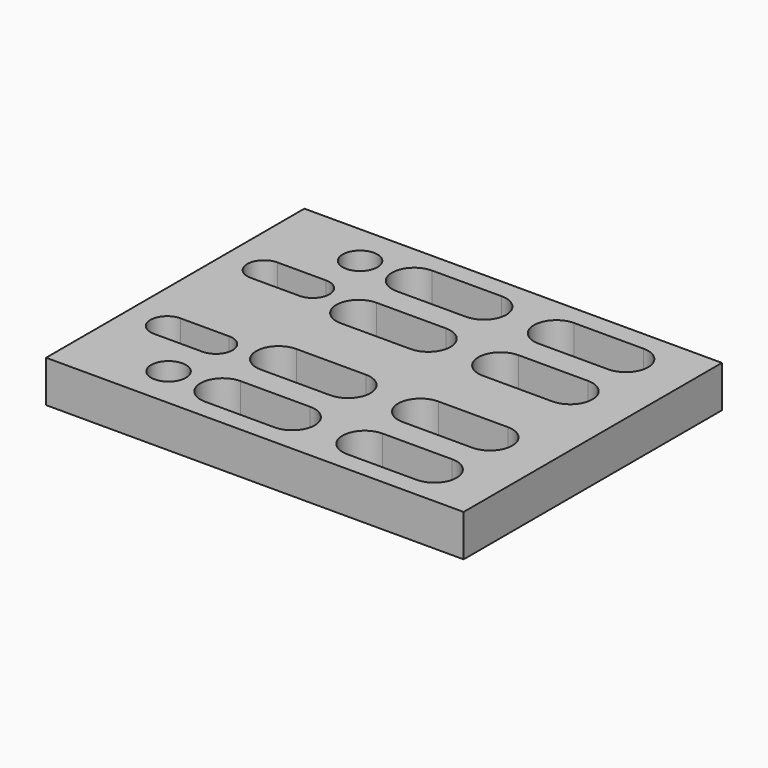
from build123d import *

# Parameters (mm, degrees)
F0_W     = 300
F0_H     = 232
F0_R     = 12.5
F1_DEPTH = 30


with BuildPart() as f1:
    # F0 (on Top) → F1 (new body)
    with BuildSketch(Plane.XY):
        with Locations((150, 0)):
            Rectangle(F0_W, F0_H)
        with Locations((64, -86)):
            Circle(F0_R, mode=Mode.SUBTRACT)
        with BuildLine():
            Line((153, -102), (103, -102))
            ThreePointArc((103, -102), (87, -86), (103, -70))
            Line((103, -70), (153, -70))
            ThreePointArc((153, -70), (169, -86), (153, -102))
        make_face(mode=Mode.SUBTRACT)
        with BuildLine():
            Line((64, -55.5), (29, -55.5))
            ThreePointArc((29, -55.5), (17, -43.5), (29, -31.5))
            Line((29, -31.5), (64, -31.5))
            ThreePointArc((64, -31.5), (76, -43.5), (64, -55.5))
        make_face(mode=Mode.SUBTRACT)
        with BuildLine():
            Line((153, -52), (103, -52))
            ThreePointArc((103, -52), (87, -36), (103, -20))
            Line((103, -20), (153, -20))
            ThreePointArc((153, -20), (169, -36), (153, -52))
        make_face(mode=Mode.SUBTRACT)
        with BuildLine():
            Line((255, -102), (205, -102))
            ThreePointArc((205, -102), (189, -86), (205, -70))
            Line((205, -70), (255, -70))
            ThreePointArc((255, -70), (271, -86), (255, -102))
        make_face(mode=Mode.SUBTRACT)
        with BuildLine():
            Line((255, -52), (205, -52))
            ThreePointArc((205, -52), (189, -36), (205, -20))
            Line((205, -20), (255, -20))
            ThreePointArc((255, -20), (271, -36), (255, -52))
        make_face(mode=Mode.SUBTRACT)
        with BuildLine():
            ThreePointArc((29, 31.5), (17, 43.5), (29, 55.5))
            Line((29, 55.5), (64, 55.5))
            ThreePointArc((64, 55.5), (76, 43.5), (64, 31.5))
            Line((64, 31.5), (29, 31.5))
        make_face(mode=Mode.SUBTRACT)
        with BuildLine():
            ThreePointArc((103, 20), (87, 36), (103, 52))
            Line((103, 52), (153, 52))
            ThreePointArc((153, 52), (169, 36), (153, 20))
            Line((153, 20), (103, 20))
        make_face(mode=Mode.SUBTRACT)
        with Locations((64, 86)):
            Circle(F0_R, mode=Mode.SUBTRACT)
        with BuildLine():
            ThreePointArc((103, 70), (87, 86), (103, 102))
            Line((103, 102), (153, 102))
            ThreePointArc((153, 102), (169, 86), (153, 70))
            Line((153, 70), (103, 70))
        make_face(mode=Mode.SUBTRACT)
        with BuildLine():
            ThreePointArc((205, 20), (189, 36), (205, 52))
            Line((205, 52), (255, 52))
            ThreePointArc((255, 52), (271, 36), (255, 20))
            Line((255, 20), (205, 20))
        make_face(mode=Mode.SUBTRACT)
        with BuildLine():
            ThreePointArc((205, 70), (189, 86), (205, 102))
            Line((205, 102), (255, 102))
            ThreePointArc((255, 102), (271, 86), (255, 70))
            Line((255, 70), (205, 70))
        make_face(mode=Mode.SUBTRACT)
    extrude(amount=F1_DEPTH)


solid = f1.part
